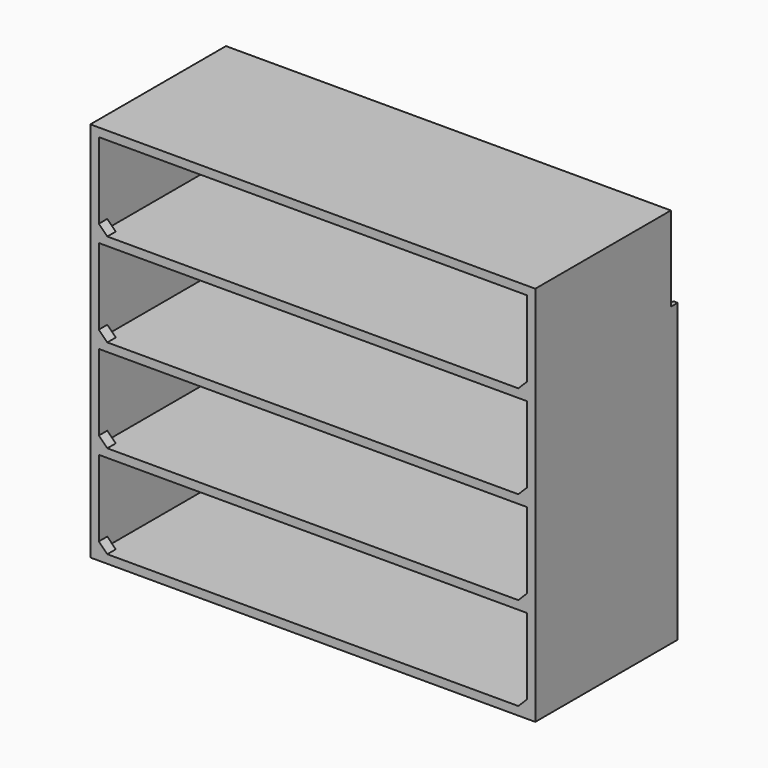
from build123d import *

# Parameters (mm, degrees)
F0_W      = 210
F0_H      = 180
F0_W_2    = 202
F0_H_2    = 40
F1_DEPTH  = 80
F2_W      = 4
F2_H      = 140
F3_DEPTH  = 2
F4_W      = 4
F4_H      = 140
F5_DEPTH  = 2
F6_W      = 2
F6_H      = 130
F7_DEPTH  = 2
F8_W      = 2
F8_H      = 130
F9_DEPTH  = 2
F11_DEPTH = 5


with BuildPart() as f1:
    # F0 (on Front) → F1 (new body)
    with BuildSketch(Plane.XZ):
        with Locations((-8.9074341967, -7.9735703766)):
            Rectangle(F0_W, F0_H)
        with Locations((-8.9074341967, -73.9735703766)):
            Rectangle(F0_W_2, F0_H_2, mode=Mode.SUBTRACT)
        with Locations((-8.9074341967, -29.9735703766)):
            Rectangle(F0_W_2, F0_H_2, mode=Mode.SUBTRACT)
        with Locations((-8.9074341967, 14.0264296234)):
            Rectangle(F0_W_2, F0_H_2, mode=Mode.SUBTRACT)
        with Locations((-8.9074341967, 58.0264296234)):
            Rectangle(F0_W_2, F0_H_2, mode=Mode.SUBTRACT)
    extrude(amount=F1_DEPTH)

    # F2 (on face) → F3 (join)
    with BuildSketch(Plane.YZ.offset(96.0925658033)):
        with Locations((2, -27.9735703766)):
            Rectangle(F2_W, F2_H)
    extrude(amount=-F3_DEPTH)

    # F4 (on face) → F5 (join)
    with BuildSketch(Plane(origin=(-113.9074341967, 0, 0), x_dir=(0, -1, 0), z_dir=(-1, 0, 0))):
        with Locations((-2, -27.9735703766)):
            Rectangle(F4_W, F4_H)
    extrude(amount=-F5_DEPTH)

    # F6 (on face) → F7 (join)
    with BuildSketch(Plane.YZ.offset(-111.9074341967)):
        with Locations((3, -32.9735703766)):
            Rectangle(F6_W, F6_H)
    extrude(amount=F7_DEPTH)

    # F8 (on face) → F9 (join)
    with BuildSketch(Plane(origin=(94.0925658033, 0, 0), x_dir=(0, -1, 0), z_dir=(-1, 0, 0))):
        with Locations((-3, -32.9735703766)):
            Rectangle(F8_W, F8_H)
    extrude(amount=F9_DEPTH)

    # F10 (on face) → F11 (join)
    with BuildSketch(Plane.XZ.offset(80)):
        Polygon((-109.9074341967, -45.9735703766), (-109.9074341967, -49.9735703766), (-105.9074341967, -49.9735703766), align=None)
        Polygon((-109.9074341967, -89.9735703766), (-109.9074341967, -93.9735703766), (-105.9074341967, -93.9735703766), align=None)
        Polygon((92.0925658033, -89.9735703766), (88.0925658033, -93.9735703766), (92.0925658033, -93.9735703766), align=None)
        Polygon((92.0925658033, -45.9735703766), (88.0925658033, -49.9735703766), (92.0925658033, -49.9735703766), align=None)
        Polygon((-109.9074341967, -1.9735703766), (-109.9074341967, -5.9735703766), (-105.9074341967, -5.9735703766), align=None)
        Polygon((92.0925658033, -1.9735703766), (88.0925658033, -5.9735703766), (92.0925658033, -5.9735703766), align=None)
        Polygon((92.0925658033, 42.0264296234), (88.0925658033, 38.0264296234), (92.0925658033, 38.0264296234), align=None)
        Polygon((-109.9074341967, 42.0264296234), (-109.9074341967, 38.0264296234), (-105.9074341967, 38.0264296234), align=None)
    extrude(amount=-F11_DEPTH)


solid = f1.part
